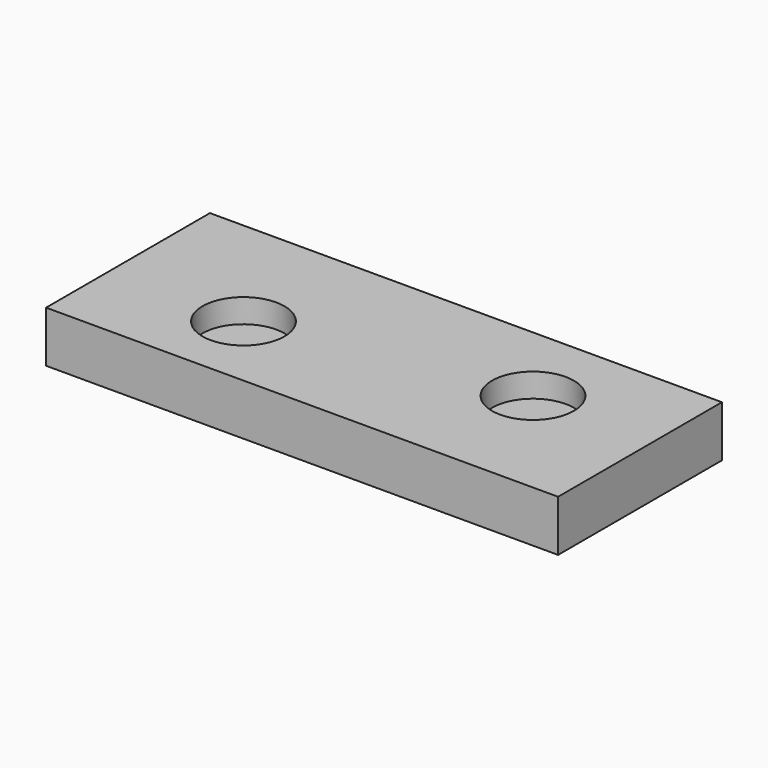
from build123d import *

# Parameters (mm, degrees)
SKETCH047_R      = 5
EXTRUDE030_DEPTH = 5
SKETCH045_R      = 12
EXTRUDE028_DEPTH = 7
SKETCH042_R      = 4
EXTRUDE025_DEPTH = 30
SKETCH040_R      = 7
SKETCH043_W      = 60
SKETCH043_H      = 15
EXTRUDE026_DEPTH = 150


with BuildPart() as extrude030:
    # Sketch047 → Extrude030 (new body)
    with BuildSketch(Plane.XY):
        with Locations((19.376185, 19.084115)):
            Circle(SKETCH047_R)
        with Locations((114.867691, -14.293477)):
            Circle(SKETCH047_R)
    extrude(amount=EXTRUDE030_DEPTH)


with BuildPart() as sprue_and_vent001:
    # Sketch045 → Extrude028 (new body)
    with BuildSketch(Plane.XY.offset(15)):
        with Locations((29.491073, -5.076964)):
            Circle(SKETCH045_R)
        with Locations((104.246048, 7.486251)):
            Circle(SKETCH045_R)
    extrude(amount=-EXTRUDE028_DEPTH)


with BuildPart() as sweep012:
    # Sweep012: sweep along a path in Sketch
    with BuildLine(Plane.XY) as sweep012_path:
        ThreePointArc((0, 0), (65.583227, -3.22849), (127, 20))
    # Sketch042 → Sweep012 (sweep)
    with BuildSketch(Plane(origin=(0, 0, 0), x_dir=(0, -1, 0), z_dir=(-1, 0, 0))):
        Circle(SKETCH042_R)
    sweep(path=sweep012_path.line)


with BuildPart() as sweep012_1:
    # Sweep012 placement: moved
    add(sweep012.part.moved(Location((0, -3, 0))))


with BuildPart() as extrude025:
    # Sketch041 → Extrude025 (new body)
    with BuildSketch(Plane.XY.offset(-15)):
        Polygon((-8.268976, 21.973037), (10.121624, 21.973037), (-0.555824, -25), (-25.401805, -25), align=None)
        Polygon((105.81268, 45.885295), (155.276998, 45.885295), (207.473539, -4.114705), (135.506671, -4.114705), align=None)
    extrude(amount=EXTRUDE025_DEPTH)


with BuildPart() as fusion012:
    # Sweep009: sweep along a path in Sketch
    with BuildLine(Plane.XY) as sweep009_path:
        ThreePointArc((0, 0), (65.583227, -3.22849), (127, 20))
    # Sketch040 → Sweep009 (sweep)
    with BuildSketch(Plane(origin=(0, 0, 0), x_dir=(0, -1, 0), z_dir=(-1, 0, 0))):
        Circle(SKETCH040_R)
    sweep(path=sweep009_path.line)

    # Cut011: cut Extrude025
    add(extrude025.part, mode=Mode.SUBTRACT)

    # Fusion011: union Sweep012
    add(sweep012_1.part)

    # Fusion012: union Sprue and Vent001
    add(sprue_and_vent001.part)


with BuildPart() as motor_mold_top:
    # Sketch043 → Extrude026 (new body)
    with BuildSketch(Plane(origin=(-10, 0, 0), x_dir=(0, -1, 0), z_dir=(-1, 0, 0))):
        with Locations((-2, 7.5)):
            Rectangle(SKETCH043_W, SKETCH043_H)
    extrude(amount=-EXTRUDE026_DEPTH)

    # Cut012: cut Fusion012
    add(fusion012.part, mode=Mode.SUBTRACT)

    # Cut014: cut Extrude030
    add(extrude030.part, mode=Mode.SUBTRACT)


solid = motor_mold_top.part
